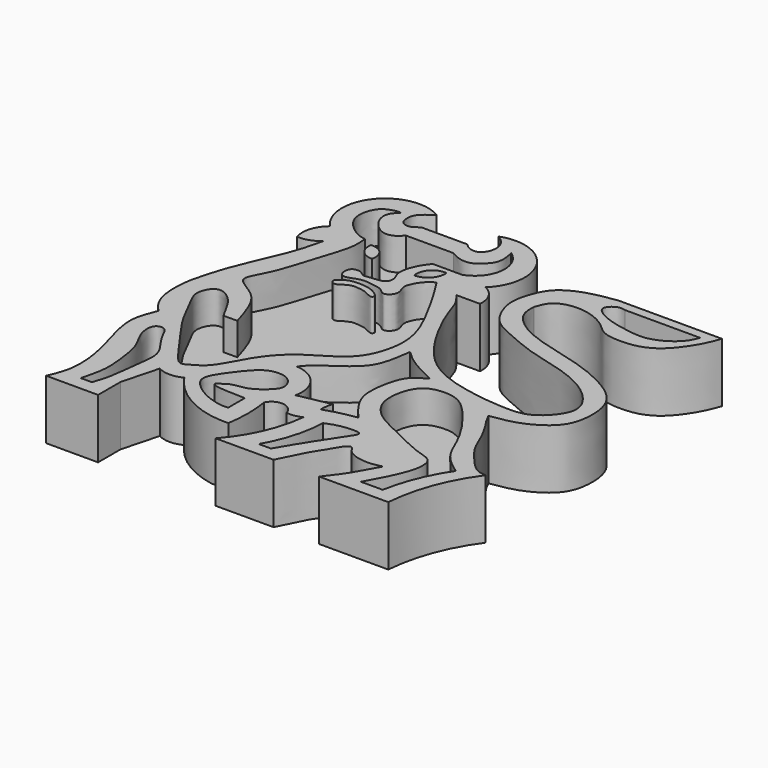
from build123d import *

# Parameters (mm, degrees)
F1_DEPTH = 15.494
F2_DEPTH = 7.112


with BuildPart() as f1:
    # F0 (on Top) → F1 (new body)
    with BuildSketch(Plane.XY):
        with BuildLine():
            add(Edge.make_bspline(
                [(0.9759647073, 44.3496629596), (0.4829158936, 43.9472209222), (-0.4461287842, 43.1889052698), (-1.9392728632, 42.9640925881), (-3.5516996061, 43.6871321072), (-3.8729570203, 45.8714063212), (-3.4510301616, 48.0308074088), (-1.0013919927, 49.8110963473), (-0.2846482225, 50.3800501164), (0, 50.6060048938)],
                knots=[0, 0, 0, 0, 0.1421680987, 0.2678852718, 0.3982922689, 0.5473790383, 0.7024599555, 0.881834697, 1, 1, 1, 1], degree=3))
            ThreePointArc((0, 50.6060048938), (-14.5336716191, 47.8918053122), (-13.8256885111, 33.1238247454))
            ThreePointArc((-13.8256885111, 33.1238247454), (-16.2040884031, 29.5907555532), (-16.223244369, 25.3317654133))
            ThreePointArc((-16.223244369, 25.3317654133), (-13.2972582746, 25.693505444), (-10.7593173161, 27.1938741207))
            add(Edge.make_bspline(
                [(-10.7593173161, 27.1938741207), (-11.1017951336, 25.7527159726), (-11.7651419771, 22.9613301965), (-12.9671442136, 19.1920099588), (-15.0159434385, 14.449796355), (-18.6522256286, 6.0189657413), (-20.3951601091, 0.0721553829), (-21.6701981274, -5.0770243372), (-21.6640734619, -11.9592200566), (-19.6334508387, -15.9724642546), (-18.3485789562, -17.2751390223), (-17.7952554077, -17.8361292928)],
                knots=[0, 0, 0, 0, 0.1020658372, 0.1976917845, 0.3093172788, 0.45816817, 0.5805552545, 0.6929633626, 0.820604263, 0.9227441372, 1, 1, 1, 1], degree=3))
            add(Edge.make_bspline(
                [(-17.7952554077, -17.8361292928), (-18.4633904025, -19.5469556788), (-19.7467622257, -22.8331574119), (-19.6595169954, -27.4670252134), (-17.741962568, -34.1598587278), (-15.6784552771, -41.573879784), (-15.5133622988, -49.3509392417), (-17.0762761346, -52.892798783), (-17.7952554077, -54.5221423464)],
                knots=[0, 0, 0, 0, 0.153829766, 0.2954803875, 0.4705342063, 0.6590084428, 0.8431353947, 1, 1, 1, 1], degree=3))
            Line((-17.7952554077, -54.5221423464), (-4.2328620329, -54.5221423464))
            Line((-4.2328620329, -54.5221423464), (-4.2328620329, -47.1873022616))
            Line((-4.2328620329, -47.1873022616), (-1.68438931, -37.5813692808))
            ThreePointArc((-1.68438931, -37.5813692808), (1.5175883891, -38.3894647392), (4.7195660882, -37.5813692808))
            ThreePointArc((4.7195660882, -37.5813692808), (13.1664995576, -45.1789267455), (24.2516286671, -47.6675964892))
            ThreePointArc((24.2516286671, -47.6675964892), (24.7184367542, -41.8239887804), (24.2516286671, -35.9803810716))
            ThreePointArc((24.2516286671, -35.9803810716), (27.6993634072, -34.0588459623), (30.649824068, -36.6806685925))
            ThreePointArc((30.649824068, -36.6806685925), (32.6544251888, -36.6705067996), (34.5707125962, -36.0819734633))
            ThreePointArc((34.5707125962, -36.0819734633), (31.9348690703, -45.9403105516), (26.4133978635, -54.5221423464))
            Line((26.4133978635, -54.5221423464), (41.542775929, -54.5221423464))
            add(Edge.make_bspline(
                [(41.542775929, -54.5221423464), (41.9903907189, -53.6901937083), (42.7530460205, -52.2692523522), (43.5495389764, -50.4579389019), (44.897924196, -47.5533682145), (46.6059456822, -45.4467158815), (49.4935817017, -39.5854369576), (51.0261418849, -40.5006426348), (51.3963485981, -41.6877976411), (53.690603446, -43.2099195875), (57.6466761095, -43.6859492882), (59.7422493414, -43.1825101676), (60.8553923666, -42.9145954549)],
                knots=[0, 0, 0, 0, 0.0972521735, 0.1831975664, 0.2878835232, 0.3971977722, 0.5439474957, 0.6052323663, 0.6707546239, 0.7683060097, 0.8891031916, 1, 1, 1, 1], degree=3))
            add(Edge.make_bspline(
                [(60.8553923666, -42.9145954549), (60.2325678944, -43.9821850254), (58.9639613142, -46.1567160764), (57.1559299566, -49.7266922323), (54.7651873148, -52.8119458367), (53.4399673343, -54.5221423464)],
                knots=[0, 0, 0, 0, 0.3006223535, 0.6123258041, 1, 1, 1, 1], degree=3))
            Line((53.4399673343, -54.5221423464), (71.4745670557, -54.5221423464))
            ThreePointArc((71.4745670557, -54.5221423464), (74.0023059916, -43.1522860138), (79.5277580619, -32.8988730907))
            add(Edge.make_bspline(
                [(79.5277580619, -32.8988730907), (78.6836385317, -32.8173940959), (76.6812971557, -32.6241172473), (73.2750810465, -28.8347586793), (70.2201133825, -24.9958124592), (68.9732419574, -21.7472192172), (66.7257626515, -16.9604039753), (64.8561921704, -14.5223105612), (64.0263392001, -12.8552520062), (63.6279181702, -12.0548798798)],
                knots=[0, 0, 0, 0, 0.11909313, 0.282501581, 0.4451633795, 0.5833518577, 0.7504618944, 0.8801941638, 1, 1, 1, 1], degree=3))
            add(Edge.make_bspline(
                [(63.6279181702, -12.0548798798), (65.9827020763, -11.7110082461), (70.7511740357, -11.0146631425), (77.6518597954, -6.8589443654), (79.9109005729, -1.7826771363), (79.9884782966, 4.9898494625), (77.3359903134, 10.3112261308), (70.0450052319, 14.81241137), (60.9062127408, 18.0999556487), (47.6513203815, 20.8385895745), (40.7366304344, 26.605748618), (40.8113204606, 29.8636411157), (40.8423393965, 31.2166512012)],
                knots=[0, 0, 0, 0, 0.0987310989, 0.1999319238, 0.2845630655, 0.3776585963, 0.4648013952, 0.5690207273, 0.6852380631, 0.8211742516, 0.9257332643, 1, 1, 1, 1], degree=3))
            add(Edge.make_bspline(
                [(40.8423393965, 31.2166512012), (41.2631272049, 32.4329364996), (42.1222898525, 34.916342331), (46.1856562286, 36.703201477), (51.7306163531, 36.3764318994), (56.5249184024, 33.7817340344), (59.1416555282, 30.6901984319), (64.6579577918, 30.3495347531), (69.0894627435, 30.954169165), (73.7427308386, 33.553377398), (78.057099413, 40.023689815), (79.0846557831, 42.9546183932), (79.5277580619, 44.2184917629)],
                knots=[0, 0, 0, 0, 0.0873141929, 0.178277725, 0.2845847174, 0.3889762968, 0.4779929199, 0.580850337, 0.6765708709, 0.779643121, 0.9049778308, 1, 1, 1, 1], degree=3))
            Line((79.5277580619, 44.2184917629), (52.5266826153, 44.2184917629))
            add(Edge.make_bspline(
                [(52.5266826153, 44.2184917629), (50.103096417, 43.8701203334), (45.3271841185, 43.1836205522), (38.7462577822, 39.9617510859), (36.5001706167, 34.3572440088), (35.3480789763, 29.2616148824), (38.4794101497, 21.3129226613), (45.4544541528, 18.5134143257), (52.4454914152, 15.299765142), (62.4469425423, 13.1733214313), (70.1601622209, 9.8546788223), (75.2128603849, 4.9450861418), (76.6024960961, -0.2033186034), (71.1594588539, -6.6553475572), (64.8648171059, -7.5638172994), (52.1622337773, -6.2062308599), (40.6806168806, -2.0943191319), (33.1816264463, 8.3889607085), (28.7934526398, 17.7834211487), (27.6583783913, 22.4547148376), (26.0171762033, 24.4971916595), (25.2428408712, 25.4608523101)],
                knots=[0, 0, 0, 0, 0.0519994202, 0.1024699144, 0.1479686107, 0.1915058816, 0.244879581, 0.2962349021, 0.3496734515, 0.4109486064, 0.4668765992, 0.5164179223, 0.5578515969, 0.6098757928, 0.6576260045, 0.7255255093, 0.7922340494, 0.8605017406, 0.9221050608, 0.9632484017, 1, 1, 1, 1], degree=3))
            Line((25.2428408712, 25.4608523101), (31.4079411328, 25.4608523101))
            ThreePointArc((31.4079411328, 25.4608523101), (30.6034590607, 29.2642483453), (27.7351159602, 31.888294965))
            ThreePointArc((27.7351159602, 31.888294965), (29.5349842688, 46.305702359), (15.7984346151, 51.0394498706))
            add(Edge.make_bspline(
                [(15.7984346151, 51.0394498706), (16.5767070725, 50.5123320048), (18.177903361, 49.427854246), (19.0771056412, 46.1954468618), (17.7555493439, 43.3478777979), (15.8215330671, 42.6983169036), (14.0234935881, 43.3246211734), (13.3566970337, 44.0222947037), (13.0438171327, 44.3496629596)],
                knots=[0, 0, 0, 0, 0.1855493252, 0.3817440641, 0.5702006243, 0.7203852064, 0.8687967892, 1, 1, 1, 1], degree=3))
            Line((13.0438171327, 44.3496629596), (0.9759647073, 44.3496629596))
        make_face()
        with BuildLine():
            Line((-8.7291952223, -50.9254001081), (-11.6488104686, -50.9254001081))
            add(Edge.make_bspline(
                [(-8.7291952223, -50.9254001081), (-8.277920204, -49.6510654167), (-7.2036408701, -46.6174575983), (-6.4771553567, -38.0821256544), (-5.4161178926, -32.2955732726), (-10.1156431374, -27.1309236463), (-11.4887228131, -22.6918057418), (-14.9034588051, -23.2718252362), (-14.6495605519, -28.2257554571), (-11.5959346563, -32.0497494927), (-10.433343308, -39.7380536659), (-10.0972582085, -45.0427818455), (-11.1233994839, -48.9333355585), (-11.6488104686, -50.9254001081)],
                knots=[0, 0, 0, 0, 0.0837991839, 0.1994875138, 0.2939294428, 0.3961381464, 0.4766247911, 0.5339801447, 0.6134314475, 0.7026578058, 0.8112095653, 0.903334394, 1, 1, 1, 1], degree=3))
        make_face(mode=Mode.SUBTRACT)
        with BuildLine():
            add(Edge.make_bspline(
                [(19.9794750661, -42.3673205078), (19.4327414394, -42.4058950634), (18.0872574232, -42.5008251088), (14.2417018793, -41.5229163448), (10.8143367059, -39.6242152295), (8.0271972074, -37.0198131991), (7.7033697417, -34.785927764), (8.8832839161, -32.3049536249), (12.1091289088, -27.8670249241), (14.9236410306, -24.8613012572), (17.7989997021, -23.8501688592), (21.0442263129, -24.2016611318), (22.9576310054, -26.4187195715), (23.3634942342, -28.8906628557), (21.1770457438, -31.1546146271), (17.9635927833, -33.5596085147), (14.1601230262, -33.6684962827), (12.6410907325, -34.7664667817), (10.4487921009, -36.1453431519), (13.5895857258, -36.7369590652), (15.855578015, -36.8143341784), (18.5045476645, -36.8904948368), (19.9794750661, -36.932900548)],
                knots=[0, 0, 0, 0, 0.0388460771, 0.0955982462, 0.1542872273, 0.2092733882, 0.2497415039, 0.2964982659, 0.3646793255, 0.4234182935, 0.4724320278, 0.5229000158, 0.5706227241, 0.6133071967, 0.6626559158, 0.7208890233, 0.7754712592, 0.8168260745, 0.8531095682, 0.8949390894, 0.9415028346, 1, 1, 1, 1], degree=3))
            Line((19.9794750661, -36.932900548), (19.9794750661, -42.3673205078))
        make_face(mode=Mode.SUBTRACT)
        with BuildLine():
            Line((38.0542501807, -50.9886443615), (34.8682403564, -50.9886443615))
            ThreePointArc((34.8682403564, -50.9886443615), (38.0261721653, -43.5721095125), (39.3009521067, -35.6126837432))
            add(Edge.make_bspline(
                [(39.3009521067, -35.6126837432), (40.4683866707, -35.134285504), (42.8531464919, -34.1570445222), (48.5296709578, -33.9182541811), (47.9443782351, -35.1915628148), (47.7508045733, -35.6126837432)],
                knots=[0, 0, 0, 0, 0.3909276446, 0.7985617084, 1, 1, 1, 1], degree=3))
            add(Edge.make_bspline(
                [(47.7508045733, -35.6126837432), (46.9099342132, -36.8662766204), (45.0089094787, -39.7003770708), (40.8050960498, -46.2576970415), (38.9165453597, -49.5056557608), (38.0542501807, -50.9886443615)],
                knots=[0, 0, 0, 0, 0.3011925945, 0.6809308535, 1, 1, 1, 1], degree=3))
        make_face(mode=Mode.SUBTRACT)
        with BuildLine():
            add(Edge.make_bspline(
                [(50.6584011018, -27.9359221458), (52.2498158876, -28.7148553742), (55.676074901, -30.3918707056), (62.301919409, -33.6412947485), (66.7058065, -34.4263544887), (67.1768832835, -39.0569480385), (64.9044050389, -44.8314479364), (62.6777544745, -48.8930698753), (61.5277402103, -50.9908050299)],
                knots=[0, 0, 0, 0, 0.1672946733, 0.3601794375, 0.4992228368, 0.6356445776, 0.8118187291, 1, 1, 1, 1], degree=3))
            add(Edge.make_bspline(
                [(50.6584011018, -27.9359221458), (49.266313398, -27.2318693223), (46.3724330541, -25.7682800517), (42.5867307313, -21.2084954945), (42.898101646, -14.8690766882), (45.6067704609, -9.5415625083), (53.0607663571, -9.2968379769), (56.887497043, -12.1476698352), (61.0505666058, -17.0535777632), (65.4724929135, -23.6971042676), (67.9157207314, -31.0528374647), (71.7477938338, -33.836137163), (73.6139565706, -35.1915628148)],
                knots=[0, 0, 0, 0, 0.0882055827, 0.1833622991, 0.2829223754, 0.3766033354, 0.4795940843, 0.5666573479, 0.6682577029, 0.7833431716, 0.8944913395, 1, 1, 1, 1], degree=3))
            ThreePointArc((73.6139565706, -35.1915628148), (69.5821251238, -42.7565016542), (67.198805511, -50.9908050299))
            Line((67.198805511, -50.9908050299), (61.5277402103, -50.9908050299))
        make_face(mode=Mode.SUBTRACT)
        with BuildLine():
            add(Edge.make_bspline(
                [(44.0994650126, -6.7248223349), (42.7995176468, -7.4158895183), (40.0962321042, -8.8529876463), (38.396056659, -13.790747993), (37.4733040769, -21.2075873094), (41.0513243581, -26.4456782659), (42.7295030941, -28.3858307079), (43.459456414, -29.229734093)],
                knots=[0, 0, 0, 0, 0.1819461855, 0.3783633905, 0.6164666208, 0.8331754196, 1, 1, 1, 1], degree=3))
            ThreePointArc((43.459456414, -29.229734093), (39.2547195619, -30.0073994946), (35.1506844163, -31.208012253))
            ThreePointArc((35.1506844163, -31.208012253), (35.2693189865, -29.500111287), (35.6372445822, -27.8280973434))
            Line((35.6372445822, -27.8280973434), (27.2763837129, -29.500111287))
            ThreePointArc((27.2763837129, -29.500111287), (25.7320633557, -22.6726683084), (19.5091944188, -19.4672346115))
            add(Edge.make_bspline(
                [(19.5091944188, -19.4672346115), (20.0952654194, -18.7605436708), (21.4266353515, -17.155162977), (25.2237583178, -14.6219251597), (31.3285746883, -10.2918974386), (32.8767124354, -4.8356649656), (33.3312102767, -1.5780438577), (33.551376313, 0)],
                knots=[0, 0, 0, 0, 0.1523242746, 0.3460330897, 0.5904789061, 0.8016214208, 1, 1, 1, 1], degree=3))
            add(Edge.make_bspline(
                [(33.551376313, 0), (34.2312379433, -0.6531715717), (35.6976110037, -2.0619776491), (38.9681213677, -4.2389359648), (42.277622699, -5.8422283616), (44.0994650126, -6.7248223349)],
                knots=[0, 0, 0, 0, 0.2798286476, 0.6035539764, 1, 1, 1, 1], degree=3))
        make_face(mode=Mode.SUBTRACT)
        with BuildLine():
            add(Edge.make_bspline(
                [(-7.6573980041, 46.7500649393), (-8.7059150846, 46.4623672343), (-10.9878739302, 45.8362312038), (-12.8476209702, 41.1410840253), (-11.4393479045, 36.7285195296), (-6.9676942317, 33.4625998111), (-5.3628643448, 33.2655090376), (-4.7391741537, 33.1889130175)],
                knots=[0, 0, 0, 0, 0.1836158625, 0.3996156567, 0.6166463733, 0.8510160493, 1, 1, 1, 1], degree=3))
            add(Edge.make_bspline(
                [(0.8455056814, 39.564743638), (0.233294801, 38.9310085361), (-1.0056896352, 37.6484636592), (-4.058159327, 37.3425841532), (-7.0908003808, 40.0050292852), (-8.4125887828, 43.0365811992), (-7.7897910364, 45.4648047887), (-5.6601169767, 47.00848108), (-7.0162552184, 46.8330185357), (-7.6573980041, 46.7500649393)],
                knots=[0, 0, 0, 0, 0.1458726158, 0.2952151071, 0.4732461546, 0.635412539, 0.7784745017, 0.8952691763, 1, 1, 1, 1], degree=3))
            add(Edge.make_bspline(
                [(13.1871569902, 39.564743638), (9.0732732206, 39.564743638), (4.959389451, 39.564743638), (0.8455056814, 39.564743638)],
                knots=[0, 0, 0, 0, 12.3416513088, 12.3416513088, 12.3416513088, 12.3416513088], degree=3))
            add(Edge.make_bspline(
                [(22.3864335567, 46.9167716801), (22.6051859169, 46.0041403074), (23.0328351492, 44.2199945019), (22.5843671632, 41.5209467594), (21.1229190559, 40.0376824633), (18.9658895265, 38.0196200207), (15.7411410878, 38.1338338545), (14.0347846967, 39.0898468761), (13.1871569902, 39.564743638)],
                knots=[0, 0, 0, 0, 0.1705328635, 0.3333826803, 0.4789969712, 0.6495698421, 0.8259248111, 1, 1, 1, 1], degree=3))
            ThreePointArc((22.3864335567, 46.9167716801), (25.7332552842, 39.4746190774), (20.5297227949, 33.1889130175))
            Line((20.5297227949, 33.1889130175), (12.91720476, 33.1889130175))
            add(Edge.make_bspline(
                [(18.6066050082, 27.3524671793), (17.8894878748, 26.8880644446), (16.4106782596, 25.9303921239), (14.8950434352, 23.3154232175), (14.3975481256, 21.2971483235), (15.7142298645, 19.0349337202), (14.6601785894, 17.1291760567), (12.9011155681, 16.3518284192), (11.65027126, 18.0877163263), (8.9547460319, 18.5172080434), (5.7677378341, 18.9157099732), (3.4243952164, 17.6474819334), (1.6744285938, 17.5406370619), (0.8370894926, 18.7184961226), (0.8724100137, 20.3039269352), (1.6065655805, 21.5064624652), (3.832051108, 21.5359475112), (4.814081794, 20.1633983169), (6.3830079127, 20.5899613686), (8.3321979005, 20.5873737333), (10.6500965043, 21.1280635993), (11.0502449783, 23.4647759439), (9.374064025, 25.704026366), (10.770508789, 30.4587794658), (12.2344046457, 32.3205387687), (12.91720476, 33.1889130175)],
                knots=[0, 0, 0, 0, 0.047877414, 0.0987308444, 0.1406201447, 0.1862294514, 0.2276290756, 0.2644547566, 0.3040712222, 0.3527363193, 0.4059283258, 0.4539677225, 0.490764147, 0.5237813663, 0.5603803487, 0.5935782859, 0.6348196305, 0.6708789098, 0.7060573294, 0.7485986597, 0.7919034838, 0.8326901675, 0.8805583085, 0.9442892059, 1, 1, 1, 1], degree=3))
            add(Edge.make_bspline(
                [(-6.112457253, -11.2710660324), (-6.5745777366, -10.4885421353), (-7.5477905889, -8.8405686287), (-8.9940827815, -5.8460741254), (-12.0463742773, -2.8773914236), (-15.2216617691, -2.5900656771), (-17.4074024922, -7.0979956227), (-14.5879610269, -11.4074031698), (-11.8527668446, -18.0312761697), (-5.184773904, -26.5633170018), (-0.4023787561, -33.9617350485), (1.8689142785, -32.4485323264), (5.9628102296, -30.4844211921), (9.6062109, -22.19042035), (15.048782654, -15.5450828556), (22.6898520285, -11.4815099722), (27.9635253245, -7.1352352325), (30.3614705637, 1.4238874739), (29.1309480643, 8.0680622586), (26.5798215993, 13.6593842225), (22.2747774903, 21.5940805258), (19.773106604, 25.5212645155), (18.6066050082, 27.3524671793)],
                knots=[0, 0, 0, 0, 0.034247735, 0.0721247749, 0.1139796133, 0.1470115636, 0.1881443312, 0.2331590005, 0.2881637449, 0.3586192846, 0.4154715869, 0.443234162, 0.485591649, 0.5468708294, 0.6078313586, 0.667588921, 0.7207811654, 0.7805077078, 0.8333089387, 0.8843728859, 0.9460843495, 1, 1, 1, 1], degree=3))
            add(Edge.make_bspline(
                [(-2.5075934827, -11.2710660324), (-3.7092147395, -11.2710660324), (-4.9108359963, -11.2710660324), (-6.112457253, -11.2710660324)],
                knots=[0, 0, 0, 0, 3.6048637703, 3.6048637703, 3.6048637703, 3.6048637703], degree=3))
            add(Edge.make_bspline(
                [(-4.7391741537, 33.1889130175), (-4.6027548771, 31.8408255112), (-4.26385164, 28.4918030628), (-7.690210022, 19.1940411204), (-9.7878528695, 11.0596516768), (-12.6929952157, 6.1565479574), (-13.5989889529, 3.0292576723), (-7.4977133206, 0.266372074), (-4.4870184764, -4.6453162861), (-3.1850419187, -9.0034358786), (-2.5075934827, -11.2710660324)],
                knots=[0, 0, 0, 0, 0.1078885419, 0.2680249963, 0.4199350527, 0.5400047206, 0.6192740525, 0.7422942319, 0.8659097443, 1, 1, 1, 1], degree=3))
        make_face(mode=Mode.SUBTRACT)
        with BuildLine():
            ThreePointArc((13.097112067, 26.8530026078), (14.1065865114, 30.4781700502), (17.6194272935, 31.8275503814))
            ThreePointArc((17.6194272935, 31.8275503814), (16.4398333765, 28.3570369733), (13.097112067, 26.8530026078))
        make_face(mode=Mode.SUBTRACT)
        with BuildLine():
            add(Edge.make_bspline(
                [(56.1730600893, 41.7661704123), (55.5233945471, 41.911128656), (54.1000014089, 42.2287267982), (50.7510762439, 39.2032755262), (56.5225950648, 36.0530683318), (61.8162111315, 35.1030813022), (67.9434319192, 34.1099165324), (74.3383557891, 38.0423477664), (75.3830756488, 40.653708838), (75.8281350136, 41.7661704123)],
                knots=[0, 0, 0, 0, 0.0966512186, 0.2117592397, 0.3619713479, 0.5252649892, 0.6905383255, 0.8681667482, 1, 1, 1, 1], degree=3))
            Line((56.1730600893, 41.7661704123), (75.8281350136, 41.7661704123))
        make_face(mode=Mode.SUBTRACT)
    extrude(amount=F1_DEPTH)


with BuildPart() as f1b:
    # F0 (on Top) → F1, piece 2 (new body)
    with BuildSketch(Plane.XY):
        with BuildLine():
            add(Edge.make_bspline(
                [(1.6357238637, 14.7508317605), (1.6478320713, 15.2969285232), (3.4090988825, 16.573895276), (4.9325824927, 17.1047376622), (7.8688989034, 17.132354123), (10.1129052263, 16.6705258008), (11.7838673456, 15.6132680109), (12.7543033579, 14.6733778907), (12.2167386722, 13.8620425552), (11.1051334647, 14.3738789889), (9.5279045534, 15.1836234041), (7.9078194302, 15.3966963778), (6.121464274, 15.5995472235), (4.6011518348, 14.8576626931), (3.3396745038, 13.9157429794), (2.4608337858, 13.7723766651), (1.627206249, 14.3666756578), (1.6357238637, 14.7508317605)],
                knots=[0, 0, 0, 0, 0.0808360664, 0.1524036794, 0.2412911405, 0.3224873012, 0.3973413209, 0.4543414114, 0.4957581851, 0.5502537011, 0.6217986571, 0.6899409573, 0.7597565323, 0.8285552871, 0.89413472, 0.9431352274, 1, 1, 1, 1], degree=3))
        make_face()
    extrude(amount=F1_DEPTH)


with BuildPart() as f1c:
    # F0 (on Top) → F1, piece 3 (new body)
    with BuildSketch(Plane.XY):
        with BuildLine():
            ThreePointArc((1.8162757624, 27.2248964757), (1.0783172003, 30.5758347532), (-2.1112232935, 31.8408255112))
            ThreePointArc((-2.1112232935, 31.8408255112), (-1.2406159172, 28.6027525071), (1.8162757624, 27.2248964757))
        make_face()
    extrude(amount=F1_DEPTH)


with BuildPart() as f2:
    # F0 (on Top) → F2 (new body)
    with BuildSketch(Plane.XY):
        with BuildLine():
            add(Edge.make_bspline(
                [(0.8455056814, 39.564743638), (0.233294801, 38.9310085361), (-1.0056896352, 37.6484636592), (-4.058159327, 37.3425841532), (-7.0908003808, 40.0050292852), (-8.4125887828, 43.0365811992), (-7.7897910364, 45.4648047887), (-5.6601169767, 47.00848108), (-7.0162552184, 46.8330185357), (-7.6573980041, 46.7500649393)],
                knots=[0, 0, 0, 0, 0.1458726158, 0.2952151071, 0.4732461546, 0.635412539, 0.7784745017, 0.8952691763, 1, 1, 1, 1], degree=3))
            add(Edge.make_bspline(
                [(-7.6573980041, 46.7500649393), (-8.7059150846, 46.4623672343), (-10.9878739302, 45.8362312038), (-12.8476209702, 41.1410840253), (-11.4393479045, 36.7285195296), (-6.9676942317, 33.4625998111), (-5.3628643448, 33.2655090376), (-4.7391741537, 33.1889130175)],
                knots=[0, 0, 0, 0, 0.1836158625, 0.3996156567, 0.6166463733, 0.8510160493, 1, 1, 1, 1], degree=3))
            add(Edge.make_bspline(
                [(-4.7391741537, 33.1889130175), (-4.6027548771, 31.8408255112), (-4.26385164, 28.4918030628), (-7.690210022, 19.1940411204), (-9.7878528695, 11.0596516768), (-12.6929952157, 6.1565479574), (-13.5989889529, 3.0292576723), (-7.4977133206, 0.266372074), (-4.4870184764, -4.6453162861), (-3.1850419187, -9.0034358786), (-2.5075934827, -11.2710660324)],
                knots=[0, 0, 0, 0, 0.1078885419, 0.2680249963, 0.4199350527, 0.5400047206, 0.6192740525, 0.7422942319, 0.8659097443, 1, 1, 1, 1], degree=3))
            add(Edge.make_bspline(
                [(-2.5075934827, -11.2710660324), (-3.7092147395, -11.2710660324), (-4.9108359963, -11.2710660324), (-6.112457253, -11.2710660324)],
                knots=[0, 0, 0, 0, 3.6048637703, 3.6048637703, 3.6048637703, 3.6048637703], degree=3))
            add(Edge.make_bspline(
                [(-6.112457253, -11.2710660324), (-6.5745777366, -10.4885421353), (-7.5477905889, -8.8405686287), (-8.9940827815, -5.8460741254), (-12.0463742773, -2.8773914236), (-15.2216617691, -2.5900656771), (-17.4074024922, -7.0979956227), (-14.5879610269, -11.4074031698), (-11.8527668446, -18.0312761697), (-5.184773904, -26.5633170018), (-0.4023787561, -33.9617350485), (1.8689142785, -32.4485323264), (5.9628102296, -30.4844211921), (9.6062109, -22.19042035), (15.048782654, -15.5450828556), (22.6898520285, -11.4815099722), (27.9635253245, -7.1352352325), (30.3614705637, 1.4238874739), (29.1309480643, 8.0680622586), (26.5798215993, 13.6593842225), (22.2747774903, 21.5940805258), (19.773106604, 25.5212645155), (18.6066050082, 27.3524671793)],
                knots=[0, 0, 0, 0, 0.034247735, 0.0721247749, 0.1139796133, 0.1470115636, 0.1881443312, 0.2331590005, 0.2881637449, 0.3586192846, 0.4154715869, 0.443234162, 0.485591649, 0.5468708294, 0.6078313586, 0.667588921, 0.7207811654, 0.7805077078, 0.8333089387, 0.8843728859, 0.9460843495, 1, 1, 1, 1], degree=3))
            add(Edge.make_bspline(
                [(18.6066050082, 27.3524671793), (17.8894878748, 26.8880644446), (16.4106782596, 25.9303921239), (14.8950434352, 23.3154232175), (14.3975481256, 21.2971483235), (15.7142298645, 19.0349337202), (14.6601785894, 17.1291760567), (12.9011155681, 16.3518284192), (11.65027126, 18.0877163263), (8.9547460319, 18.5172080434), (5.7677378341, 18.9157099732), (3.4243952164, 17.6474819334), (1.6744285938, 17.5406370619), (0.8370894926, 18.7184961226), (0.8724100137, 20.3039269352), (1.6065655805, 21.5064624652), (3.832051108, 21.5359475112), (4.814081794, 20.1633983169), (6.3830079127, 20.5899613686), (8.3321979005, 20.5873737333), (10.6500965043, 21.1280635993), (11.0502449783, 23.4647759439), (9.374064025, 25.704026366), (10.770508789, 30.4587794658), (12.2344046457, 32.3205387687), (12.91720476, 33.1889130175)],
                knots=[0, 0, 0, 0, 0.047877414, 0.0987308444, 0.1406201447, 0.1862294514, 0.2276290756, 0.2644547566, 0.3040712222, 0.3527363193, 0.4059283258, 0.4539677225, 0.490764147, 0.5237813663, 0.5603803487, 0.5935782859, 0.6348196305, 0.6708789098, 0.7060573294, 0.7485986597, 0.7919034838, 0.8326901675, 0.8805583085, 0.9442892059, 1, 1, 1, 1], degree=3))
            Line((12.91720476, 33.1889130175), (20.5297227949, 33.1889130175))
            ThreePointArc((20.5297227949, 33.1889130175), (25.7332552842, 39.4746190774), (22.3864335567, 46.9167716801))
            add(Edge.make_bspline(
                [(22.3864335567, 46.9167716801), (22.6051859169, 46.0041403074), (23.0328351492, 44.2199945019), (22.5843671632, 41.5209467594), (21.1229190559, 40.0376824633), (18.9658895265, 38.0196200207), (15.7411410878, 38.1338338545), (14.0347846967, 39.0898468761), (13.1871569902, 39.564743638)],
                knots=[0, 0, 0, 0, 0.1705328635, 0.3333826803, 0.4789969712, 0.6495698421, 0.8259248111, 1, 1, 1, 1], degree=3))
            add(Edge.make_bspline(
                [(13.1871569902, 39.564743638), (9.0732732206, 39.564743638), (4.959389451, 39.564743638), (0.8455056814, 39.564743638)],
                knots=[0, 0, 0, 0, 12.3416513088, 12.3416513088, 12.3416513088, 12.3416513088], degree=3))
        make_face()
        with BuildLine():
            add(Edge.make_bspline(
                [(1.6357238637, 14.7508317605), (1.6478320713, 15.2969285232), (3.4090988825, 16.573895276), (4.9325824927, 17.1047376622), (7.8688989034, 17.132354123), (10.1129052263, 16.6705258008), (11.7838673456, 15.6132680109), (12.7543033579, 14.6733778907), (12.2167386722, 13.8620425552), (11.1051334647, 14.3738789889), (9.5279045534, 15.1836234041), (7.9078194302, 15.3966963778), (6.121464274, 15.5995472235), (4.6011518348, 14.8576626931), (3.3396745038, 13.9157429794), (2.4608337858, 13.7723766651), (1.627206249, 14.3666756578), (1.6357238637, 14.7508317605)],
                knots=[0, 0, 0, 0, 0.0808360664, 0.1524036794, 0.2412911405, 0.3224873012, 0.3973413209, 0.4543414114, 0.4957581851, 0.5502537011, 0.6217986571, 0.6899409573, 0.7597565323, 0.8285552871, 0.89413472, 0.9431352274, 1, 1, 1, 1], degree=3))
        make_face(mode=Mode.SUBTRACT)
        with BuildLine():
            ThreePointArc((1.8162757624, 27.2248964757), (-1.2406159172, 28.6027525071), (-2.1112232935, 31.8408255112))
            ThreePointArc((-2.1112232935, 31.8408255112), (1.0783172003, 30.5758347532), (1.8162757624, 27.2248964757))
        make_face(mode=Mode.SUBTRACT)
    extrude(amount=F2_DEPTH)


with BuildPart() as f2b:
    # F0 (on Top) → F2, piece 2 (new body)
    with BuildSketch(Plane.XY):
        with BuildLine():
            Line((75.8281350136, 41.7661704123), (56.1730600893, 41.7661704123))
            add(Edge.make_bspline(
                [(56.1730600893, 41.7661704123), (55.5233945471, 41.911128656), (54.1000014089, 42.2287267982), (50.7510762439, 39.2032755262), (56.5225950648, 36.0530683318), (61.8162111315, 35.1030813022), (67.9434319192, 34.1099165324), (74.3383557891, 38.0423477664), (75.3830756488, 40.653708838), (75.8281350136, 41.7661704123)],
                knots=[0, 0, 0, 0, 0.0966512186, 0.2117592397, 0.3619713479, 0.5252649892, 0.6905383255, 0.8681667482, 1, 1, 1, 1], degree=3))
        make_face()
    extrude(amount=F2_DEPTH)


with BuildPart() as f2c:
    # F0 (on Top) → F2, piece 3 (new body)
    with BuildSketch(Plane.XY):
        with BuildLine():
            add(Edge.make_bspline(
                [(50.6584011018, -27.9359221458), (49.266313398, -27.2318693223), (46.3724330541, -25.7682800517), (42.5867307313, -21.2084954945), (42.898101646, -14.8690766882), (45.6067704609, -9.5415625083), (53.0607663571, -9.2968379769), (56.887497043, -12.1476698352), (61.0505666058, -17.0535777632), (65.4724929135, -23.6971042676), (67.9157207314, -31.0528374647), (71.7477938338, -33.836137163), (73.6139565706, -35.1915628148)],
                knots=[0, 0, 0, 0, 0.0882055827, 0.1833622991, 0.2829223754, 0.3766033354, 0.4795940843, 0.5666573479, 0.6682577029, 0.7833431716, 0.8944913395, 1, 1, 1, 1], degree=3))
            add(Edge.make_bspline(
                [(50.6584011018, -27.9359221458), (52.2498158876, -28.7148553742), (55.676074901, -30.3918707056), (62.301919409, -33.6412947485), (66.7058065, -34.4263544887), (67.1768832835, -39.0569480385), (64.9044050389, -44.8314479364), (62.6777544745, -48.8930698753), (61.5277402103, -50.9908050299)],
                knots=[0, 0, 0, 0, 0.1672946733, 0.3601794375, 0.4992228368, 0.6356445776, 0.8118187291, 1, 1, 1, 1], degree=3))
            Line((61.5277402103, -50.9908050299), (67.198805511, -50.9908050299))
            ThreePointArc((67.198805511, -50.9908050299), (69.5821251238, -42.7565016542), (73.6139565706, -35.1915628148))
        make_face()
    extrude(amount=F2_DEPTH)


with BuildPart() as f2d:
    # F0 (on Top) → F2, piece 4 (new body)
    with BuildSketch(Plane.XY):
        with BuildLine():
            Line((19.9794750661, -42.3673205078), (19.9794750661, -36.932900548))
            add(Edge.make_bspline(
                [(19.9794750661, -42.3673205078), (19.4327414394, -42.4058950634), (18.0872574232, -42.5008251088), (14.2417018793, -41.5229163448), (10.8143367059, -39.6242152295), (8.0271972074, -37.0198131991), (7.7033697417, -34.785927764), (8.8832839161, -32.3049536249), (12.1091289088, -27.8670249241), (14.9236410306, -24.8613012572), (17.7989997021, -23.8501688592), (21.0442263129, -24.2016611318), (22.9576310054, -26.4187195715), (23.3634942342, -28.8906628557), (21.1770457438, -31.1546146271), (17.9635927833, -33.5596085147), (14.1601230262, -33.6684962827), (12.6410907325, -34.7664667817), (10.4487921009, -36.1453431519), (13.5895857258, -36.7369590652), (15.855578015, -36.8143341784), (18.5045476645, -36.8904948368), (19.9794750661, -36.932900548)],
                knots=[0, 0, 0, 0, 0.0388460771, 0.0955982462, 0.1542872273, 0.2092733882, 0.2497415039, 0.2964982659, 0.3646793255, 0.4234182935, 0.4724320278, 0.5229000158, 0.5706227241, 0.6133071967, 0.6626559158, 0.7208890233, 0.7754712592, 0.8168260745, 0.8531095682, 0.8949390894, 0.9415028346, 1, 1, 1, 1], degree=3))
        make_face()
    extrude(amount=F2_DEPTH)


with BuildPart() as f2e:
    # F0 (on Top) → F2, piece 5 (new body)
    with BuildSketch(Plane.XY):
        with BuildLine():
            add(Edge.make_bspline(
                [(-8.7291952223, -50.9254001081), (-8.277920204, -49.6510654167), (-7.2036408701, -46.6174575983), (-6.4771553567, -38.0821256544), (-5.4161178926, -32.2955732726), (-10.1156431374, -27.1309236463), (-11.4887228131, -22.6918057418), (-14.9034588051, -23.2718252362), (-14.6495605519, -28.2257554571), (-11.5959346563, -32.0497494927), (-10.433343308, -39.7380536659), (-10.0972582085, -45.0427818455), (-11.1233994839, -48.9333355585), (-11.6488104686, -50.9254001081)],
                knots=[0, 0, 0, 0, 0.0837991839, 0.1994875138, 0.2939294428, 0.3961381464, 0.4766247911, 0.5339801447, 0.6134314475, 0.7026578058, 0.8112095653, 0.903334394, 1, 1, 1, 1], degree=3))
            Line((-11.6488104686, -50.9254001081), (-8.7291952223, -50.9254001081))
        make_face()
    extrude(amount=F2_DEPTH)


with BuildPart() as f2f:
    # F0 (on Top) → F2, piece 6 (new body)
    with BuildSketch(Plane.XY):
        with BuildLine():
            ThreePointArc((39.3009521067, -35.6126837432), (38.0261721653, -43.5721095125), (34.8682403564, -50.9886443615))
            Line((34.8682403564, -50.9886443615), (38.0542501807, -50.9886443615))
            add(Edge.make_bspline(
                [(47.7508045733, -35.6126837432), (46.9099342132, -36.8662766204), (45.0089094787, -39.7003770708), (40.8050960498, -46.2576970415), (38.9165453597, -49.5056557608), (38.0542501807, -50.9886443615)],
                knots=[0, 0, 0, 0, 0.3011925945, 0.6809308535, 1, 1, 1, 1], degree=3))
            add(Edge.make_bspline(
                [(39.3009521067, -35.6126837432), (40.4683866707, -35.134285504), (42.8531464919, -34.1570445222), (48.5296709578, -33.9182541811), (47.9443782351, -35.1915628148), (47.7508045733, -35.6126837432)],
                knots=[0, 0, 0, 0, 0.3909276446, 0.7985617084, 1, 1, 1, 1], degree=3))
        make_face()
    extrude(amount=F2_DEPTH)


with BuildPart() as f2g:
    # F0 (on Top) → F2, piece 7 (new body)
    with BuildSketch(Plane.XY):
        with BuildLine():
            ThreePointArc((35.1506844163, -31.208012253), (39.2547195619, -30.0073994946), (43.459456414, -29.229734093))
            add(Edge.make_bspline(
                [(44.0994650126, -6.7248223349), (42.7995176468, -7.4158895183), (40.0962321042, -8.8529876463), (38.396056659, -13.790747993), (37.4733040769, -21.2075873094), (41.0513243581, -26.4456782659), (42.7295030941, -28.3858307079), (43.459456414, -29.229734093)],
                knots=[0, 0, 0, 0, 0.1819461855, 0.3783633905, 0.6164666208, 0.8331754196, 1, 1, 1, 1], degree=3))
            add(Edge.make_bspline(
                [(33.551376313, 0), (34.2312379433, -0.6531715717), (35.6976110037, -2.0619776491), (38.9681213677, -4.2389359648), (42.277622699, -5.8422283616), (44.0994650126, -6.7248223349)],
                knots=[0, 0, 0, 0, 0.2798286476, 0.6035539764, 1, 1, 1, 1], degree=3))
            add(Edge.make_bspline(
                [(19.5091944188, -19.4672346115), (20.0952654194, -18.7605436708), (21.4266353515, -17.155162977), (25.2237583178, -14.6219251597), (31.3285746883, -10.2918974386), (32.8767124354, -4.8356649656), (33.3312102767, -1.5780438577), (33.551376313, 0)],
                knots=[0, 0, 0, 0, 0.1523242746, 0.3460330897, 0.5904789061, 0.8016214208, 1, 1, 1, 1], degree=3))
            ThreePointArc((19.5091944188, -19.4672346115), (25.7320633557, -22.6726683084), (27.2763837129, -29.500111287))
            Line((27.2763837129, -29.500111287), (35.6372445822, -27.8280973434))
            ThreePointArc((35.6372445822, -27.8280973434), (35.2693189865, -29.500111287), (35.1506844163, -31.208012253))
        make_face()
    extrude(amount=F2_DEPTH)


with BuildPart() as f2h:
    # F0 (on Top) → F2, piece 8 (new body)
    with BuildSketch(Plane.XY):
        with BuildLine():
            ThreePointArc((13.097112067, 26.8530026078), (16.4398333765, 28.3570369733), (17.6194272935, 31.8275503814))
            ThreePointArc((17.6194272935, 31.8275503814), (14.1065865114, 30.4781700502), (13.097112067, 26.8530026078))
        make_face()
    extrude(amount=F2_DEPTH)


solid = Compound([f1.part, f1b.part, f1c.part, f2.part, f2b.part, f2c.part, f2d.part, f2e.part, f2f.part, f2g.part, f2h.part])
